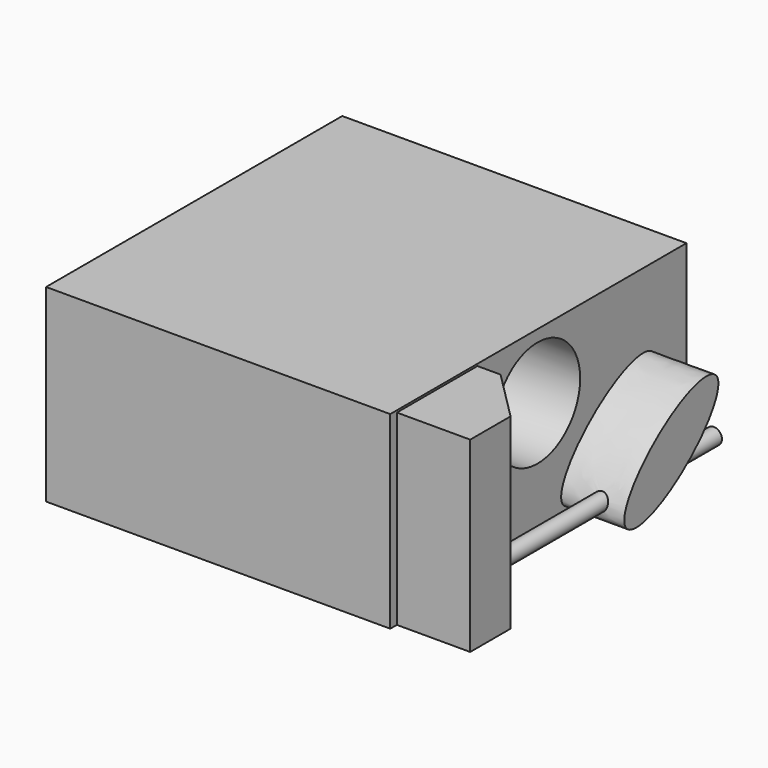
from build123d import *

# Parameters (mm, degrees)
F0_W      = 173.928797245
F0_H      = 187.0874911547
F1_DEPTH  = 95.48471
F3_DEPTH  = 31.89981
F4_R      = 26.9824905485
F5_DEPTH  = 54.75889
F6_W      = 50.8995316923
F6_H      = 94.4704711437
F7_DEPTH  = 37.06032
F8_SIZE   = 25.4
F9_R      = 4.0856018796
F10_DEPTH = 176.47482


with BuildPart() as f1:
    # F0 (on Top) → F1 (new body)
    with BuildSketch(Plane.XY):
        with Locations((-2.4397224188, 51.0212108493)):
            Rectangle(F0_W, F0_H)
    extrude(amount=F1_DEPTH)

    # F2 (on face) → F3 (join)
    with BuildSketch(Plane.YZ.offset(84.5246762037)):
        with BuildLine():
            add(Edge.make_bspline(
                [(66.6194483638, 10.8080217615), (81.0180202992, -7.6605326817), (116.6287906901, 34.9495930902), (152.2395610809, 77.5597188622), (102.2302187546, 53.4181475334), (52.2208764283, 29.2765762047), (66.6194483638, 10.8080217615)],
                knots=[0, 0, 0, 2.0943951024, 2.0943951024, 4.1887902048, 4.1887902048, 6.2831853072, 6.2831853072, 6.2831853072], degree=2, weights=[1, 0.5, 1, 0.5, 1, 0.5, 1]))
        make_face()
    extrude(amount=F3_DEPTH)

    # F4 (on face) → F5 (cut)
    with BuildSketch(Plane.YZ.offset(84.5246762037)):
        with Locations((50.47198385, 62.5876039267)):
            Circle(F4_R)
    extrude(amount=-F5_DEPTH, mode=Mode.SUBTRACT)

    # F6 (on face) → F7 (join)
    with BuildSketch(Plane.YZ.offset(84.5246762037)):
        with Locations((-12.8862280399, 47.2352355719)):
            Rectangle(F6_W, F6_H)
    extrude(amount=F7_DEPTH)

    # F8
    f8_edges = [f1.edges().sort_by_distance(p)[0] for p in [
        (121.584996, 12.563538, 47.235236),
    ]]
    chamfer(f8_edges, length=F8_SIZE)

    # F9 (on face) → F10 (join)
    with BuildSketch(Plane.XZ.offset(38.335993886)):
        with Locations((103.5241857171, 18.4381566942)):
            Circle(F9_R)
    extrude(amount=-F10_DEPTH)


solid = f1.part
